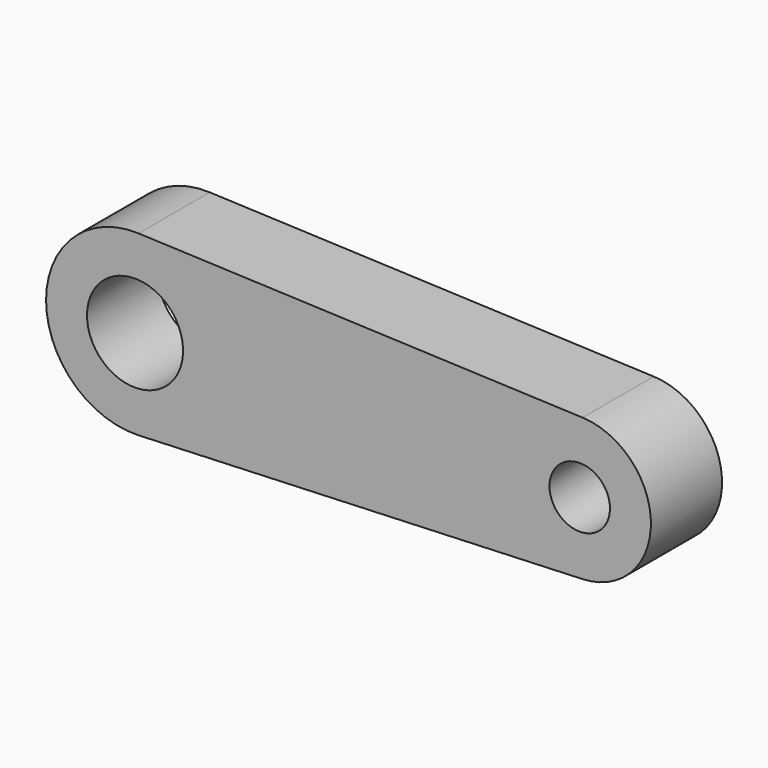
from build123d import *

# Parameters (mm, degrees)
F1_DEPTH = 10
F2_D     = 10.8
F3_D     = 6.8


with BuildPart() as f1:
    # F0 (on Front) → F1 (new body)
    with BuildSketch(Plane.XZ):
        with BuildLine():
            Line((50.32, 7.9935974379), (0.4, 9.9919967974))
            ThreePointArc((0.4, 9.9919967974), (-10, 0), (0.4, -9.9919967974))
            Line((0.4, -9.9919967974), (50.32, -7.9935974379))
            ThreePointArc((50.32, -7.9935974379), (58, 0), (50.32, 7.9935974379))
        make_face()
    extrude(amount=F1_DEPTH)

    # F2 (through all)
    with Locations(Plane(origin=(0, 0, 0), x_dir=(1, 0, 0), z_dir=(0, 1, 0))):
        with Locations((0, 0)):
            Hole(F2_D / 2)

    # F3 (through all)
    with Locations(Plane(origin=(0, 0, 0), x_dir=(1, 0, 0), z_dir=(0, 1, 0))):
        with Locations((50, 0)):
            Hole(F3_D / 2)


solid = f1.part
